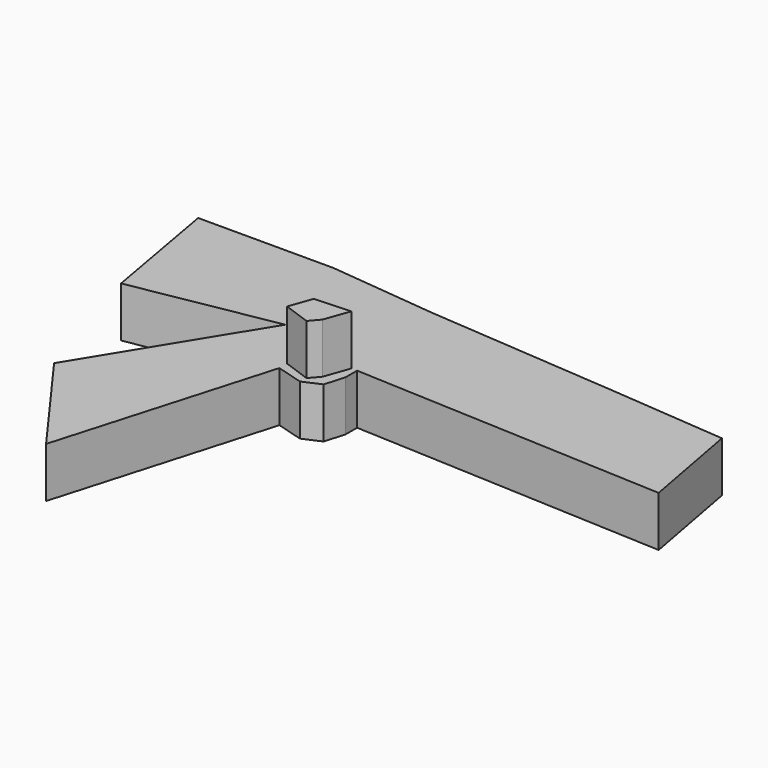
from build123d import *

# Parameters (mm, degrees)
F1_DEPTH = 25.4
F3_DEPTH = 25.4


with BuildPart() as f1:
    # F0 (on Top) → F1 (new body)
    with BuildSketch(Plane.XY):
        Polygon((-170.958579, 12.585102), (-98.389238, 25.517641), (-149.032265, -57.078436), (-108.417206, -112.903006), (-77.047296, -4.846431), (-74.092499, 5.331642), (-51.749377, 5.331642), (-51.749377, 12.585102), (106.318571, 5.331642), (96.669301, 57.336546), (36.629643, 62.309485), (-59.037734, 69.580153), (-113.755345, 75.21973), (-182.120658, 75.21973), align=None)
        Polygon((-74.092499, 5.331642), (-77.047296, -4.846431), (-63.583464, -8.755117), (-54.704174, -4.846431), (-51.749377, 5.331642), align=None)
    extrude(amount=F1_DEPTH)

    # F2 (on face) → F3 (join)
    with BuildSketch(Plane.XY.offset(25.4)):
        Polygon((-54.704174, 12.585102), (-72.897859, 11.73104), (-77.047296, 0), (-63.345755, -4.846431), (-59.143819, 0), align=None)
    extrude(amount=F3_DEPTH)


solid = f1.part
